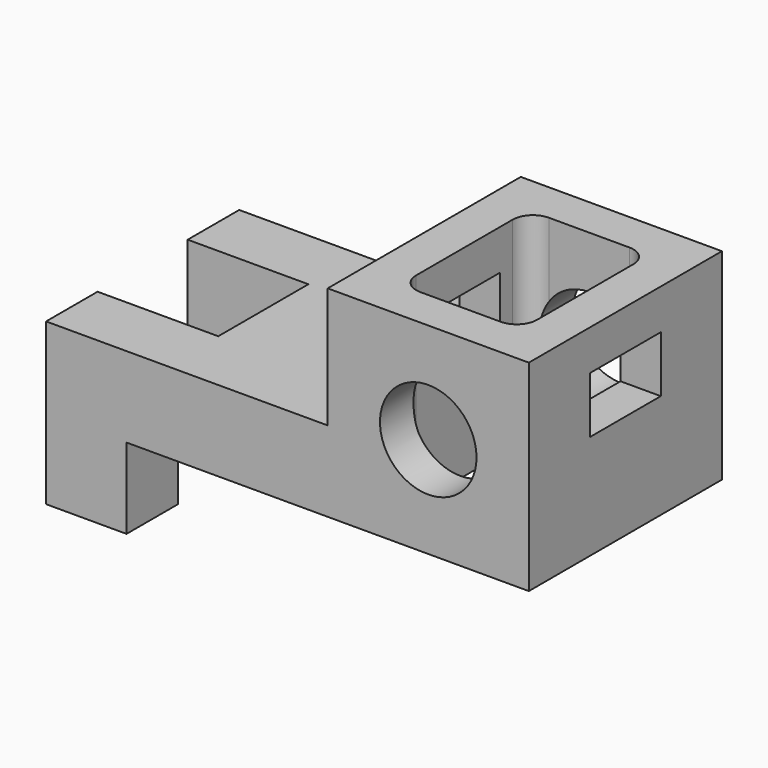
from build123d import *

# Parameters (mm, degrees)
F0_W      = 1200
F0_H      = 600
F1_DEPTH  = 700
F2_W      = 700
F2_H      = 600
F3_DEPTH  = 300
F4_W      = 1000
F4_H      = 600
F5_DEPTH  = 200
F6_W      = 600
F6_H      = 280
F7_DEPTH  = 400.001
F9_DEPTH  = 700.001
F10_W     = 220
F10_H     = 140
F11_DEPTH = 1200.001
F12_R     = 120
F13_DEPTH = 600.001


with BuildPart() as f1:
    # F0 (on Top) → F1 (new body)
    with BuildSketch(Plane.XY):
        Rectangle(F0_W, F0_H)
    extrude(amount=F1_DEPTH)

    # F2 (on face) → F3 (cut)
    with BuildSketch(Plane.XY.offset(700)):
        with Locations((-250, 0)):
            Rectangle(F2_W, F2_H)
    extrude(amount=-F3_DEPTH, mode=Mode.SUBTRACT)

    # F4 (on face) → F5 (cut)
    with BuildSketch(Plane(origin=(0, 0, 0), x_dir=(1, 0, 0), z_dir=(0, 0, -1))):
        with Locations((100, 0)):
            Rectangle(F4_W, F4_H)
    extrude(amount=-F5_DEPTH, mode=Mode.SUBTRACT)

    # F6 (on face) → F7 (cut, through all)
    with BuildSketch(Plane.XY.offset(400)):
        with Locations((-600, 0)):
            Rectangle(F6_W, F6_H)
    extrude(amount=-F7_DEPTH, mode=Mode.SUBTRACT)

    # F8 (on face) → F9 (cut, through all)
    with BuildSketch(Plane.XY.offset(700)):
        with BuildLine():
            ThreePointArc((500, 150), (485.355339, 185.355339), (450, 200))
            Line((450, 200), (250, 200))
            ThreePointArc((250, 200), (214.644661, 185.355339), (200, 150))
            Line((200, 150), (200, -150))
            ThreePointArc((200, -150), (214.644661, -185.355339), (250, -200))
            Line((250, -200), (450, -200))
            ThreePointArc((450, -200), (485.355339, -185.355339), (500, -150))
            Line((500, -150), (500, 150))
        make_face()
    extrude(amount=-F9_DEPTH, mode=Mode.SUBTRACT)

    # F10 (on face) → F11 (cut, through all)
    with BuildSketch(Plane.YZ.offset(600)):
        with Locations((0, 530)):
            Rectangle(F10_W, F10_H)
    extrude(amount=-F11_DEPTH, mode=Mode.SUBTRACT)

    # F12 (on face) → F13 (cut, through all)
    with BuildSketch(Plane.XZ.offset(300)):
        with Locations((350, 450)):
            Circle(F12_R)
    extrude(amount=-F13_DEPTH, mode=Mode.SUBTRACT)


solid = f1.part
